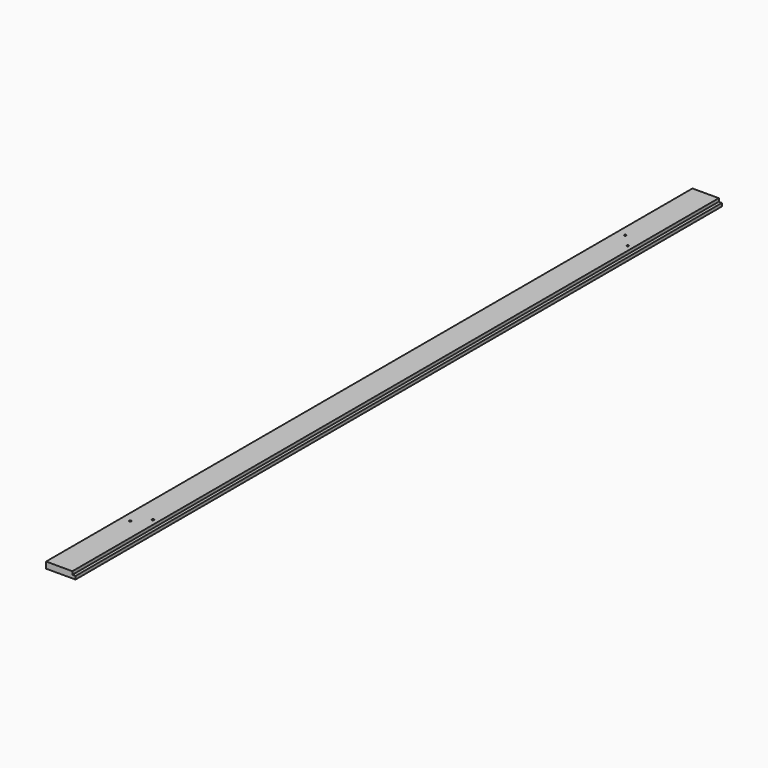
from build123d import *

# Parameters (mm, degrees)
F0_W     = 88.9
F0_H     = 19.05
F1_DEPTH = 1219.2
F2_W     = 44.1598849037
F2_H     = 21.9993637201
F3_DEPTH = 2438.401
F5_R     = 3.175
F6_DEPTH = 19.05


with BuildPart() as f1:
    # F0 (on Front) → F1 (new body, symmetric)
    with BuildSketch(Plane.XZ):
        Rectangle(F0_W, F0_H)
    extrude(amount=F1_DEPTH, both=True)

    # F2 (on face) → F3 (cut, through all)
    with BuildSketch(Plane.XZ.offset(1219.2)):
        with Locations((57.0049424518, 10.9996818601)):
            Rectangle(F2_W, F2_H)
    extrude(amount=-F3_DEPTH, mode=Mode.SUBTRACT)

    # F5 (on face) → F6 (cut, through all)
    with BuildSketch(Plane.XY.offset(9.525)):
        with Locations((19.05, -895.35)):
            Circle(F5_R)
        with Locations((-19.05, -933.45)):
            Circle(F5_R)
        with Locations((-19.05, 933.45)):
            Circle(F5_R)
        with Locations((19.05, 895.35)):
            Circle(F5_R)
    extrude(amount=-F6_DEPTH, mode=Mode.SUBTRACT)


solid = f1.part
